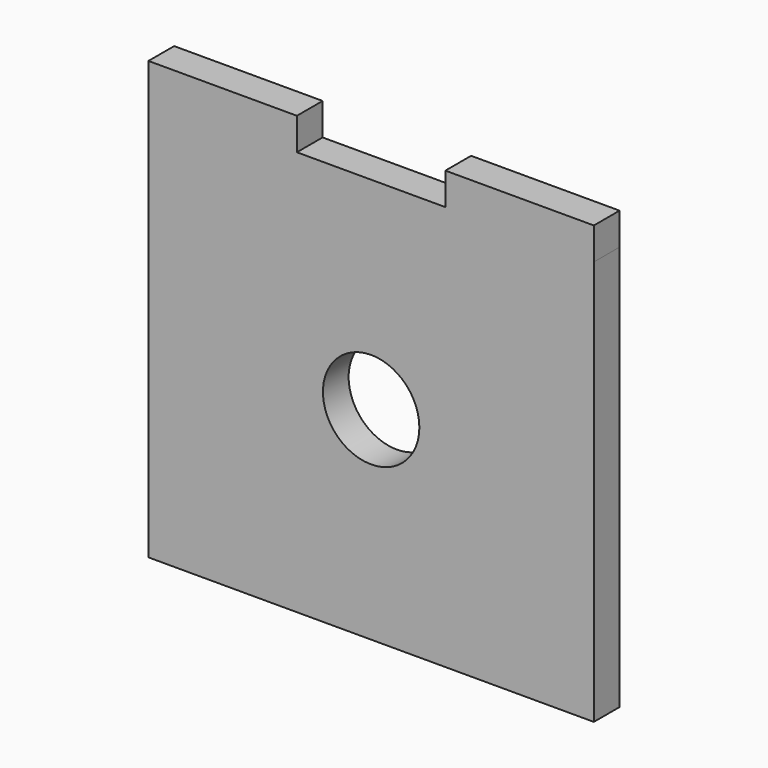
from build123d import *

# Parameters (mm, degrees)
F0_W     = 44
F0_H     = 40
F0_R     = 4.7625
F1_DEPTH = 3.175
F2_W     = 14.666667
F2_H     = 3.175
F3_DEPTH = 3.175


with BuildPart() as f1:
    # F0 (on Front) → F1 (new body)
    with BuildSketch(Plane.XZ):
        Rectangle(F0_W, F0_H)
        Circle(F0_R, mode=Mode.SUBTRACT)
    extrude(amount=F1_DEPTH)

    # F2 (on face) → F3 (join)
    with BuildSketch(Plane.XY.offset(20)):
        with Locations((-14.666666, -1.5875)):
            Rectangle(F2_W, F2_H)
        with Locations((14.666666, -1.5875)):
            Rectangle(F2_W, F2_H)
    extrude(amount=F3_DEPTH)


solid = f1.part
